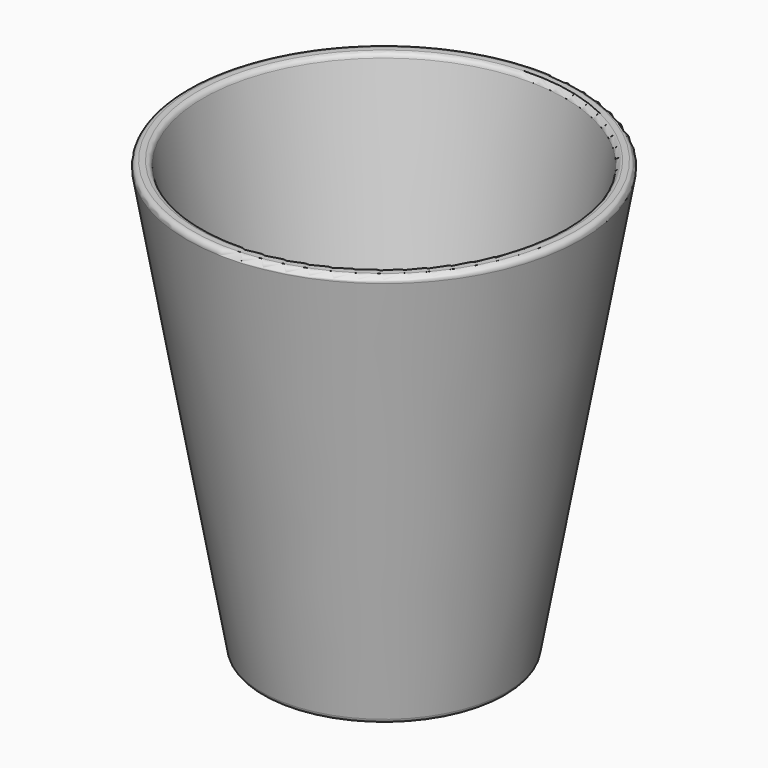
from build123d import *

# Parameters (mm, degrees)
F0_R     = 23.0531460168
F1_DEPTH = 82
F1_TAPER = -10
F2_T     = -3
F3_R     = 1


with BuildPart() as f1:
    # F0 (on Top) → F1 (new body)
    with BuildSketch(Plane.XY):
        Circle(F0_R)
    extrude(amount=F1_DEPTH, taper=F1_TAPER)

    # F2
    f2_openings = [f1.faces().sort_by_distance(p)[0] for p in [
        (0, 0, 82),
    ]]
    offset(amount=F2_T, openings=f2_openings, kind=Kind.INTERSECTION)

    # F3
    f3_edges = [f1.edges().sort_by_distance(p)[0] for p in [
        (-37.511958, 0, 82),
        (-34.465679, 0, 82),
        (-23.053146, 0, 0),
    ]]
    fillet(f3_edges, radius=F3_R)


solid = f1.part
